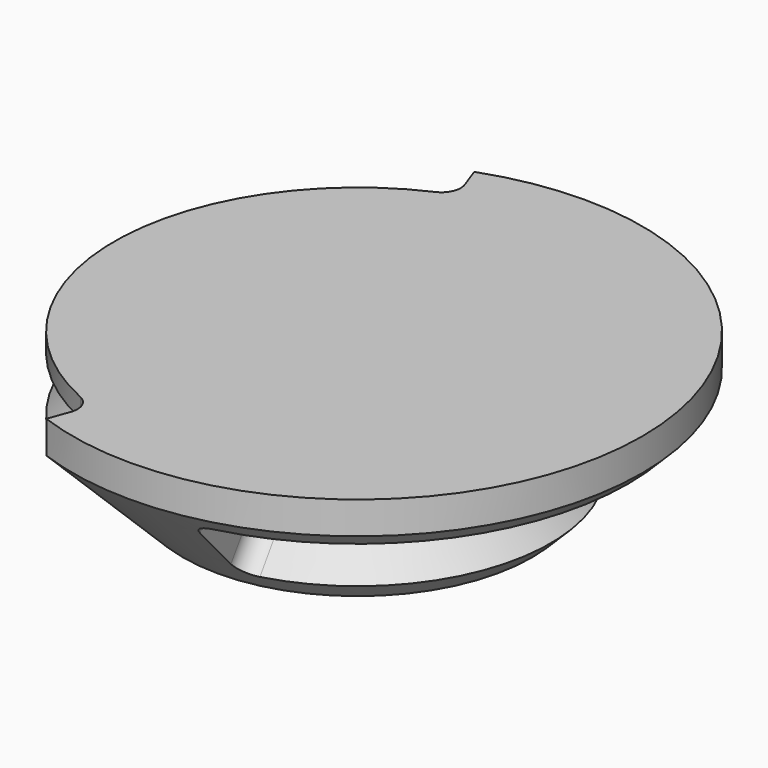
from build123d import *

# Parameters (mm, degrees)
F3_W           = 8.3933982822
F3_H           = 16.3933982822
F4_ANGLE_BACK  = 70
F4_ANGLE       = 140
F6_ANGLE_START = 100
F6_ANGLE       = 160
F7_ANGLE_BACK  = 70
F7_ANGLE       = 140
F8_R           = 3
F8_2_R         = 3
F9_R           = 3


with BuildPart() as f1:
    # F0 (on Front) → F1 (revolve)
    with BuildSketch(Plane.XZ):
        Polygon((-44, 15), (-27, -2), (0, -2), (0, 20), (-44, 20), align=None)
    revolve(axis=Axis((0, 0, 9.4880101401), (0, 0, -1)))


with BuildPart() as f4:
    # F3 (on Front) → F4 (revolve)
    with BuildSketch(Plane.XZ, mode=Mode.PRIVATE) as f4_sk:
        with Locations((-41.8033008589, 16.8033008589)):
            Rectangle(F3_W, F3_H)
    revolve(f4_sk.sketch.rotate(Axis((0, 0, 9.4880101401), (0, 0, -1)), -F4_ANGLE_BACK), axis=Axis((0, 0, 9.4880101401), (0, 0, -1)), revolution_arc=F4_ANGLE)

    # F8#2
    f8_2_edges = [f4.edges().sort_by_distance(p)[0] for p in [
        (-12.862215, 35.338646, 16.803301),
        (-12.862215, -35.338646, 16.803301),
    ]]
    fillet(f8_2_edges, radius=F8_2_R)


with BuildPart() as f6:
    # F5 (on Front) → F6 (revolve)
    with BuildSketch(Plane.XZ, mode=Mode.PRIVATE) as f6_sk:
        Polygon((-36.8994949366, -6.2426406871), (-25.5857864376, 5.0710678119), (-37.6066017178, 17.091883092), (-48.9203102168, 5.7781745931), align=None)
    revolve(f6_sk.sketch.rotate(Axis((0, 0, 9), (0, 0, -1)), F6_ANGLE_START), axis=Axis((0, 0, 9), (0, 0, -1)), revolution_arc=F6_ANGLE)

    # F9
    f9_edges = [f6.edges().sort_by_distance(p)[0] for p in [
        (5.425228, 30.767995, -0.585786),
        (7.51262, 42.606187, 11.435029),
        (7.51262, -42.606187, 11.435029),
        (5.425228, -30.767995, -0.585786),
    ]]
    fillet(f9_edges, radius=F9_R)


with BuildPart() as f7:
    # F2 (on Front) → F7 (revolve)
    with BuildSketch(Plane.XZ, mode=Mode.PRIVATE) as f7_sk:
        Polygon((-42.7019295049, 3.5112739307), (-33.3639610307, 12.8492424049), (-37.6066017178, 17.091883092), (-46.944570192, 7.7539146178), align=None)
    revolve(f7_sk.sketch.rotate(Axis((0, 0, 9), (0, 0, -1)), -F7_ANGLE_BACK), axis=Axis((0, 0, 9), (0, 0, -1)), revolution_arc=F7_ANGLE)

    # F8
    f8_edges = [f7.edges().sort_by_distance(p)[0] for p in [
        (-13.008033, -35.739278, 8.180258),
        (-13.008033, 35.739278, 8.180258),
    ]]
    fillet(f8_edges, radius=F8_R)


with BuildPart() as f1_1:
    add(f1.part)

    # F10: cut F7, F4, F6
    add(f7.part, mode=Mode.SUBTRACT)
    add(f4.part, mode=Mode.SUBTRACT)
    add(f6.part, mode=Mode.SUBTRACT)


solid = f1_1.part
